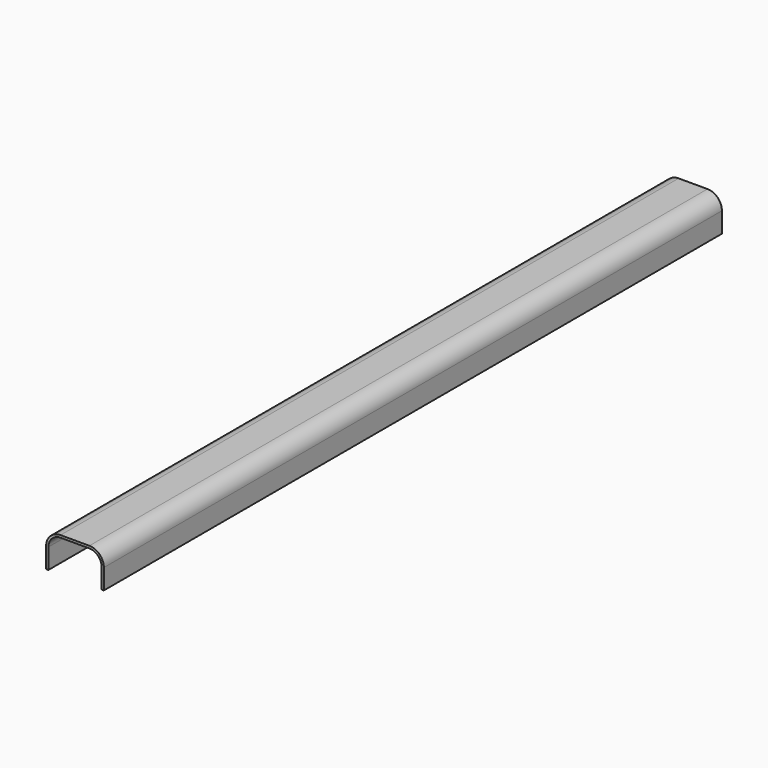
from build123d import *

# Parameters (mm, degrees)
F1_DEPTH = 2675


with BuildPart() as f1:
    # F0 (on Front) → F1 (new body)
    with BuildSketch(Plane.XZ):
        with BuildLine():
            Line((-100, 70), (-100, 0))
            Line((-100, 0), (-92, 0))
            Line((-92, 0), (-92, 70))
            ThreePointArc((-92, 70), (-79.698485, 99.698485), (-50, 112))
            Line((-50, 112), (0, 112))
            Line((0, 112), (50, 112))
            ThreePointArc((50, 112), (79.698485, 99.698485), (92, 70))
            Line((92, 70), (92, 0))
            Line((92, 0), (100, 0))
            Line((100, 0), (100, 70))
            ThreePointArc((100, 70), (85.355339, 105.355339), (50, 120))
            Line((50, 120), (0, 120))
            Line((0, 120), (-50, 120))
            ThreePointArc((-50, 120), (-85.355339, 105.355339), (-100, 70))
        make_face()
    extrude(amount=-F1_DEPTH)


solid = f1.part
